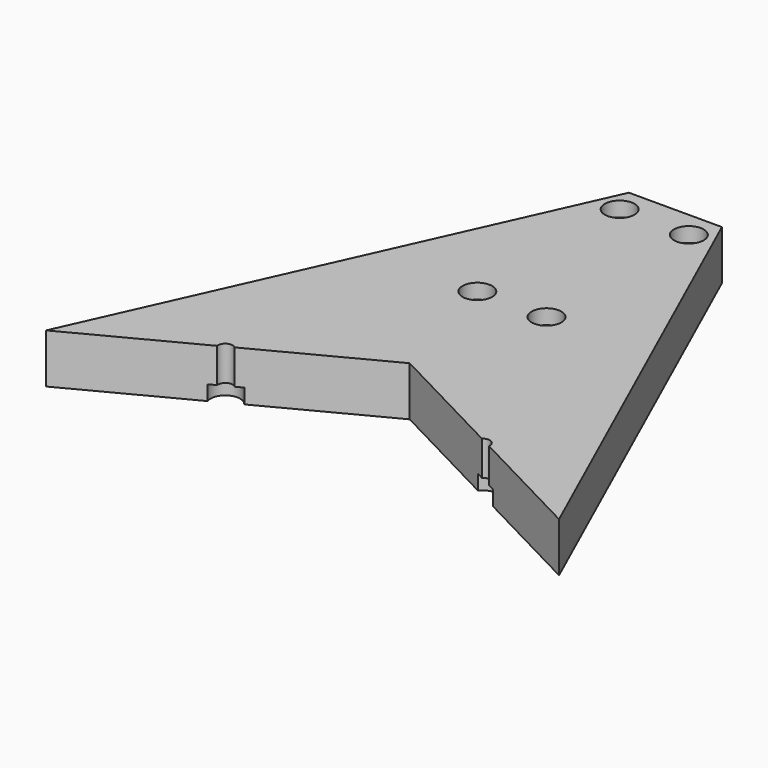
from build123d import *

# Parameters (mm, degrees)
CYLINDER1267_R              = 1.5
CYLINDER1267_DEPTH          = 32
CYLINDER1266_R              = 1.5
CYLINDER1266_DEPTH          = 32
CYLINDER1265_R              = 1.5
CYLINDER1265_DEPTH          = 100
CYLINDER1264_R              = 1.5
CYLINDER1264_DEPTH          = 100
CYLINDER1259_R              = 3
CYLINDER1259_DEPTH          = 3
CYLINDER1258_R              = 3
CYLINDER1258_DEPTH          = 3
CYLINDER581_R               = 3
CYLINDER581_DEPTH           = 4
CYLINDER582_R               = 3
CYLINDER582_DEPTH           = 4
CYLINDER580_R               = 3
CYLINDER580_DEPTH           = 4
CYLINDER575_R               = 3
CYLINDER575_DEPTH           = 4
COMPOUND338_PLACEMENT_ANGLE = 90
CYLINDER576_R               = 1.5
CYLINDER576_DEPTH           = 20
CYLINDER578_R               = 1.5
CYLINDER578_DEPTH           = 20
CYLINDER579_R               = 1.5
CYLINDER579_DEPTH           = 20
CYLINDER577_R               = 1.5
CYLINDER577_DEPTH           = 20
COMPOUND337_PLACEMENT_ANGLE = 90
PAD001_DEPTH                = 10


with BuildPart() as obj1:
    # Cylinder1267 → Cylinder1267 (new body)
    with BuildSketch(Plane(origin=(78, 41, -42), x_dir=(1, 0, 0), z_dir=(0, 0, 1))):
        Circle(CYLINDER1267_R)
    extrude(amount=CYLINDER1267_DEPTH)


with BuildPart() as compound649:
    # Cylinder1266 → Cylinder1266 (new body)
    with BuildSketch(Plane(origin=(26, 41, -42), x_dir=(1, 0, 0), z_dir=(0, 0, 1))):
        Circle(CYLINDER1266_R)
    extrude(amount=CYLINDER1266_DEPTH)

    # Compound649: union obj1
    add(obj1.part)


with BuildPart() as compound649_1:
    # Compound649 placement: moved
    add(compound649.part.moved(Location((-52, 0, 36))))


with BuildPart() as obj2:
    # Cylinder1265 → Cylinder1265 (new body)
    with BuildSketch(Plane(origin=(14, 0, -60), x_dir=(1, 0, 0), z_dir=(0, 0, 1))):
        Circle(CYLINDER1265_R)
    extrude(amount=CYLINDER1265_DEPTH)


with BuildPart() as compound647:
    # Cylinder1264 → Cylinder1264 (new body)
    with BuildSketch(Plane(origin=(90, 0, -60), x_dir=(1, 0, 0), z_dir=(0, 0, 1))):
        Circle(CYLINDER1264_R)
    extrude(amount=CYLINDER1264_DEPTH)

    # Compound648: union obj2
    add(obj2.part)


with BuildPart() as compound647_1:
    # Compound648 placement: moved
    add(compound647.part.moved(Location((-52, 0, 0))))

    # Compound647: union Compound649
    add(compound649_1.part)


with BuildPart() as obj3:
    # Cylinder1259 → Cylinder1259 (new body)
    with BuildSketch(Plane(origin=(78, 41, -42), x_dir=(1, 0, 0), z_dir=(0, 0, 1))):
        Circle(CYLINDER1259_R)
    extrude(amount=CYLINDER1259_DEPTH)


with BuildPart() as compound642:
    # Cylinder1258 → Cylinder1258 (new body)
    with BuildSketch(Plane(origin=(26, 41, -42), x_dir=(1, 0, 0), z_dir=(0, 0, 1))):
        Circle(CYLINDER1258_R)
    extrude(amount=CYLINDER1258_DEPTH)

    # Compound642: union obj3
    add(obj3.part)


with BuildPart() as compound642_1:
    # Compound642 placement: moved
    add(compound642.part.moved(Location((-52, 0, 42))))


with BuildPart() as obj4:
    # Cylinder581 → Cylinder581 (new body)
    with BuildSketch(Plane(origin=(-7, -34, 37), x_dir=(1, 0, 0), z_dir=(0, -1, 0))):
        Circle(CYLINDER581_R)
    extrude(amount=CYLINDER581_DEPTH)


with BuildPart() as obj5:
    # Cylinder582 → Cylinder582 (new body)
    with BuildSketch(Plane(origin=(7, -34, 73), x_dir=(1, 0, 0), z_dir=(0, -1, 0))):
        Circle(CYLINDER582_R)
    extrude(amount=CYLINDER582_DEPTH)


with BuildPart() as obj6:
    # Cylinder580 → Cylinder580 (new body)
    with BuildSketch(Plane(origin=(-7, -34, 73), x_dir=(1, 0, 0), z_dir=(0, -1, 0))):
        Circle(CYLINDER580_R)
    extrude(amount=CYLINDER580_DEPTH)


with BuildPart() as compound338:
    # Cylinder575 → Cylinder575 (new body)
    with BuildSketch(Plane(origin=(7, -34, 37), x_dir=(1, 0, 0), z_dir=(0, -1, 0))):
        Circle(CYLINDER575_R)
    extrude(amount=CYLINDER575_DEPTH)

    # Compound338: union obj4, obj5, obj6
    add(obj4.part)
    add(obj5.part)
    add(obj6.part)


with BuildPart() as compound338_1:
    # Compound338 placement: moved
    add(compound338.part.moved(Location((0, 154, 45))).rotate(Axis((0, 154, 45), (1, 0, 0)), COMPOUND338_PLACEMENT_ANGLE))


with BuildPart() as obj7:
    # Cylinder576 → Cylinder576 (new body)
    with BuildSketch(Plane(origin=(-7, -34, 37), x_dir=(1, 0, 0), z_dir=(0, -1, 0))):
        Circle(CYLINDER576_R)
    extrude(amount=CYLINDER576_DEPTH)


with BuildPart() as obj8:
    # Cylinder578 → Cylinder578 (new body)
    with BuildSketch(Plane(origin=(7, -34, 73), x_dir=(1, 0, 0), z_dir=(0, -1, 0))):
        Circle(CYLINDER578_R)
    extrude(amount=CYLINDER578_DEPTH)


with BuildPart() as obj9:
    # Cylinder579 → Cylinder579 (new body)
    with BuildSketch(Plane(origin=(-7, -34, 73), x_dir=(1, 0, 0), z_dir=(0, -1, 0))):
        Circle(CYLINDER579_R)
    extrude(amount=CYLINDER579_DEPTH)


with BuildPart() as compound337:
    # Cylinder577 → Cylinder577 (new body)
    with BuildSketch(Plane(origin=(7, -34, 37), x_dir=(1, 0, 0), z_dir=(0, -1, 0))):
        Circle(CYLINDER577_R)
    extrude(amount=CYLINDER577_DEPTH)

    # Compound337: union obj7, obj8, obj9
    add(obj7.part)
    add(obj8.part)
    add(obj9.part)


with BuildPart() as compound337_1:
    # Compound337 placement: moved
    add(compound337.part.moved(Location((0, 154, 45))).rotate(Axis((0, 154, 45), (1, 0, 0)), COMPOUND337_PLACEMENT_ANGLE))


with BuildPart() as cut204:
    # Sketch001 → Pad001 (new body)
    with BuildSketch(Plane.XY):
        Polygon((-51.883896, 28.015725), (-9.412477, 122.34876), (9.417463, 122.34876), (51.774643, 28.198511), (0, 55.140807), align=None)
    extrude(amount=PAD001_DEPTH)

    # Cut192: cut Compound337
    add(compound337_1.part, mode=Mode.SUBTRACT)

    # Cut193: cut Compound338
    add(compound338_1.part, mode=Mode.SUBTRACT)

    # Cut197: cut Compound642
    add(compound642_1.part, mode=Mode.SUBTRACT)

    # Cut204: cut Compound647
    add(compound647_1.part, mode=Mode.SUBTRACT)


solid = cut204.part
